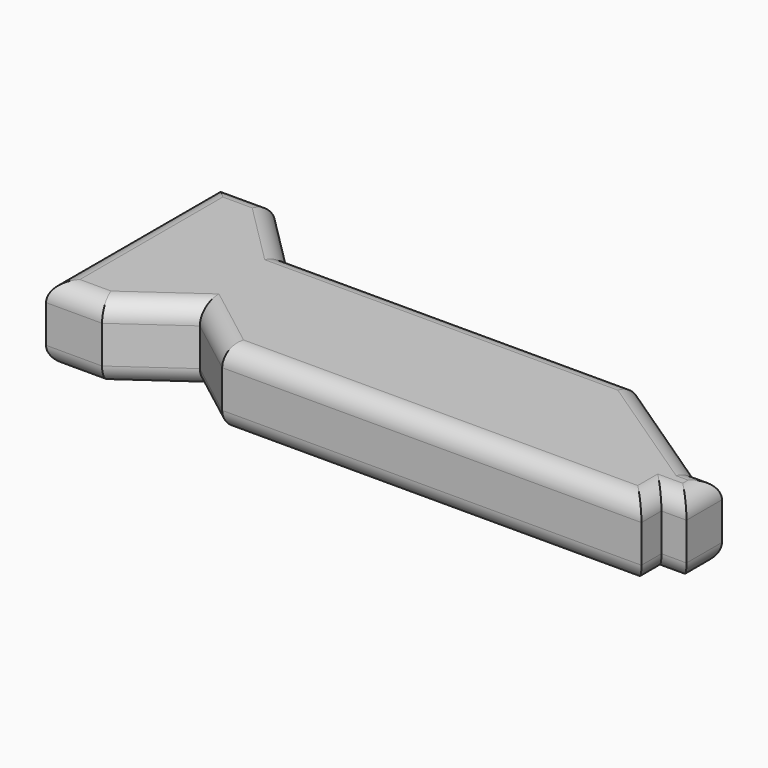
from build123d import *

# Parameters (mm, degrees)
F1_DEPTH = 40
F2_R     = 20


with BuildPart() as f1:
    # F0 (on Top) → F1 (new body, symmetric)
    with BuildSketch(Plane.XY):
        Polygon((-204.060495, 48.680026), (-270.436168, 115), (-330, 115), (-330, -115), (-270.436168, -115), (-204.060495, -67.942664), (-142.64749, -115), (303.372264, -115), (303.372264, -88.413671), (330, -88.413671), (330, -41.268326), (303.372264, -41.268326), (169.380248, 48.680026), align=None)
    extrude(amount=F1_DEPTH, both=True)

    # F2
    f2_edges = [f1.edges().sort_by_distance(p)[0] for p in [
        (-237.248331, -91.471332, 40),
        (-173.353992, -91.471332, 40),
        (80.362387, -115, 40),
        (303.372264, -101.706835, 40),
        (316.686132, -88.413671, 40),
        (330, -64.840999, 40),
        (316.686132, -41.268326, 40),
        (236.376256, 3.70585, 40),
        (-17.340124, 48.680026, 40),
        (-237.248331, 81.840013, 40),
        (-300.218084, 115, 40),
        (-330, 0, 40),
        (-300.218084, -115, 40),
        (-237.248331, -91.471332, -40),
        (-173.353992, -91.471332, -40),
        (80.362387, -115, -40),
        (303.372264, -101.706835, -40),
        (316.686132, -88.413671, -40),
        (330, -64.840999, -40),
        (316.686132, -41.268326, -40),
        (236.376256, 3.70585, -40),
        (-17.340124, 48.680026, -40),
        (-237.248331, 81.840013, -40),
        (-300.218084, 115, -40),
        (-330, 0, -40),
        (-300.218084, -115, -40),
    ]]
    fillet(f2_edges, radius=F2_R)


solid = f1.part
